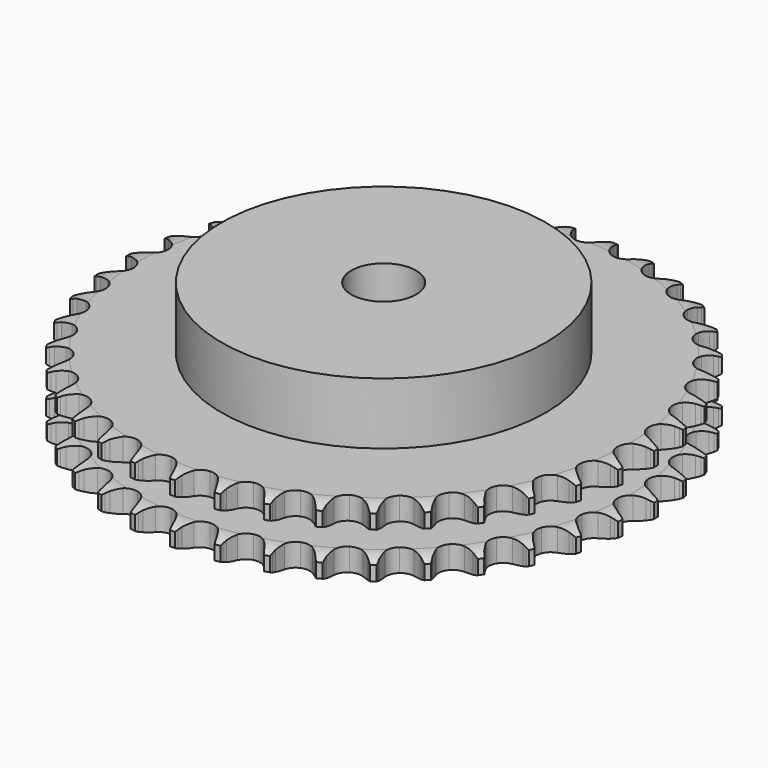
from build123d import *

# Parameters (mm, degrees)
PAD_DEPTH         = 21
SKETCH001_R       = 50
PAD001_DEPTH      = 40
SKETCH002_R       = 10
POCKET_DEPTH      = 0.001
POCKET_DEPTH_BACK = 40.001


with BuildPart() as part:
    # Sprocket → Pad (new body)
    with BuildSketch(Plane.XY):
        with BuildLine():
            ThreePointArc((-6.656622, 82.457062), (-5.929777, 81.440918), (-5.398329, 80.310249))
            Line((-5.398329, 80.310249), (-4.983377, 79.168588))
            ThreePointArc((-4.983377, 79.168588), (-4.32707, 77.702452), (-3.466416, 76.346144))
            ThreePointArc((-3.466416, 76.346144), (-1.9406, 75.061463), (0, 74.600386))
            ThreePointArc((0, 74.600386), (1.9406, 75.061463), (3.466416, 76.346144))
            ThreePointArc((3.466416, 76.346144), (4.32707, 77.702452), (4.983377, 79.168588))
            Line((4.983377, 79.168588), (5.398329, 80.310249))
            ThreePointArc((5.398329, 80.310249), (5.929777, 81.440918), (6.656622, 82.457062))
            ThreePointArc((6.656622, 82.457062), (7.211054, 81.337483), (7.554248, 80.136205))
            Line((7.554248, 80.136205), (7.780691, 78.942766))
            ThreePointArc((7.780691, 78.942766), (8.193314, 77.390336), (8.825256, 75.913534))
            ThreePointArc((8.825256, 75.913534), (10.125235, 74.400731), (11.966743, 73.63433))
            ThreePointArc((11.966743, 73.63433), (13.956175, 73.778143), (15.66831, 74.80143))
            Line((15.66831, 74.80143), (17.618378, 77.343986))
            ThreePointArc((17.618378, 77.343986), (17.900249, 77.88224), (18.211092, 78.404299))
            ThreePointArc((18.211092, 78.404299), (18.91703, 79.435077), (19.797464, 80.321468))
            ThreePointArc((19.797464, 80.321468), (20.165122, 79.12745), (20.311173, 77.886676))
            Line((20.311173, 77.886676), (20.343243, 76.672367))
            ThreePointArc((20.343243, 76.672367), (20.501496, 75.073852), (20.888358, 73.514803))
            ThreePointArc((20.888358, 73.514803), (21.928833, 71.813059), (23.623554, 70.761184))
            ThreePointArc((23.623554, 70.761184), (25.610293, 70.584007), (27.464403, 71.319397))
            Line((27.464403, 71.319397), (29.797073, 73.516215))
            ThreePointArc((29.797073, 73.516215), (30.161635, 74.002284), (30.552197, 74.467719))
            ThreePointArc((30.552197, 74.467719), (31.414342, 75.371908), (32.425561, 76.105589))
            ThreePointArc((32.425561, 76.105589), (32.596925, 74.868057), (32.54205, 73.619922))
            Line((32.54205, 73.619922), (32.378916, 72.416194))
            ThreePointArc((32.378916, 72.416194), (32.2787, 70.812994), (32.410463, 69.212078))
            ThreePointArc((32.410463, 69.212078), (33.164485, 67.365467), (34.668528, 66.055361))
            ThreePointArc((34.668528, 66.055361), (36.601117, 65.561783), (38.549182, 65.99023))
            Line((38.549182, 65.99023), (41.204039, 67.784413))
            ThreePointArc((41.204039, 67.784413), (41.641851, 68.205707), (42.102016, 68.602465))
            ThreePointArc((42.102016, 68.602465), (43.098039, 69.356647), (44.213854, 69.918616))
            ThreePointArc((44.213854, 69.918616), (44.184484, 68.669621), (43.930105, 67.446452))
            Line((43.930105, 67.446452), (43.575992, 66.28448))
            ThreePointArc((43.575992, 66.28448), (43.219902, 64.718117), (43.093154, 63.116796))
            ThreePointArc((43.093154, 63.116796), (43.541194, 61.173144), (44.815605, 59.638738))
            ThreePointArc((44.815605, 59.638738), (46.643992, 58.841543), (48.635557, 58.95195))
            Line((48.635557, 58.95195), (51.543842, 60.29703))
            ThreePointArc((51.543842, 60.29703), (52.043565, 60.642638), (52.561416, 60.960443))
            ThreePointArc((52.561416, 60.960443), (53.665519, 61.545085), (54.857031, 61.920787))
            ThreePointArc((54.857031, 61.920787), (54.627688, 60.692678), (54.180394, 59.526153))
            Line((54.180394, 59.526153), (53.644473, 58.436033))
            ThreePointArc((53.644473, 58.436033), (53.041732, 56.947074), (52.659755, 55.386822))
            ThreePointArc((52.659755, 55.386822), (52.79021, 53.396469), (53.801981, 51.677504))
            ThreePointArc((53.801981, 51.677504), (55.478812, 50.597338), (57.462297, 50.386846))
            Line((57.462297, 50.386846), (60.548686, 51.247985))
            ThreePointArc((60.548686, 51.247985), (61.097378, 51.508957), (61.659502, 51.739577))
            ThreePointArc((61.659502, 51.739577), (62.843091, 52.139538), (64.079439, 52.319243))
            ThreePointArc((64.079439, 52.319243), (63.656064, 51.143826), (63.027438, 50.064159))
            Line((63.027438, 50.064159), (62.32359, 49.074123))
            ThreePointArc((62.32359, 49.074123), (61.489808, 47.701133), (60.862496, 46.222358))
            ThreePointArc((60.862496, 46.222358), (60.671986, 44.236854), (61.394914, 42.377849))
            ThreePointArc((61.394914, 42.377849), (62.87676, 41.042688), (64.800794, 40.516748))
            Line((64.800794, 40.516748), (67.985352, 40.871645))
            ThreePointArc((67.985352, 40.871645), (68.568801, 41.041221), (69.160639, 41.178683))
            ThreePointArc((69.160639, 41.178683), (70.393059, 41.383604), (71.642224, 41.362657))
            ThreePointArc((71.642224, 41.362657), (71.035782, 40.270376), (70.242105, 39.305529))
            Line((70.242105, 39.305529), (69.388559, 38.441219))
            ThreePointArc((69.388559, 38.441219), (68.345331, 37.219757), (67.48893, 35.86076))
            ThreePointArc((67.48893, 35.86076), (66.98239, 33.931527), (67.397751, 31.98063))
            ThreePointArc((67.397751, 31.98063), (68.646232, 30.425055), (70.460984, 29.597289))
            Line((70.460984, 29.597289), (73.661232, 29.436751))
            ThreePointArc((73.661232, 29.436751), (74.264328, 29.510539), (74.870553, 29.551283))
            ThreePointArc((74.870553, 29.551283), (76.119885, 29.555856), (77.349513, 29.334801))
            ThreePointArc((77.349513, 29.334801), (76.575709, 28.353944), (75.637539, 27.528907))
            Line((75.637539, 27.528907), (74.6564, 26.812708))
            ThreePointArc((74.6564, 26.812708), (73.430746, 25.774408), (72.367437, 24.570386))
            ThreePointArc((72.367437, 24.570386), (71.557986, 22.747392), (71.655021, 20.75513))
            ThreePointArc((71.655021, 20.75513), (72.637804, 19.019428), (74.296272, 17.911275))
            Line((74.296272, 17.911275), (77.429325, 17.23946))
            ThreePointArc((77.429325, 17.23946), (78.036447, 17.215549), (78.641358, 17.158521))
            ThreePointArc((78.641358, 17.158521), (79.875245, 16.962627), (81.05349, 16.547188))
            ThreePointArc((81.05349, 16.547188), (80.132367, 15.703161), (79.074, 15.0393))
            Line((79.074, 15.0393), (77.99068, 14.489762))
            ThreePointArc((77.99068, 14.489762), (76.614343, 13.661517), (75.371665, 12.643653))
            ThreePointArc((75.371665, 12.643653), (74.280267, 10.974111), (74.056465, 8.992083))
            ThreePointArc((74.056465, 8.992083), (74.748094, 7.121208), (76.207325, 5.761368))
            Line((76.207325, 5.761368), (79.19204, 4.595676))
            ThreePointArc((79.19204, 4.595676), (79.787464, 4.474686), (80.375393, 4.321362))
            ThreePointArc((80.375393, 4.321362), (81.561878, 3.930075), (82.658224, 3.331013))
            ThreePointArc((82.658224, 3.331013), (81.613638, 2.645673), (80.462486, 2.160183))
            Line((80.462486, 2.160183), (79.305043, 1.791538))
            ThreePointArc((79.305043, 1.791538), (77.813669, 1.194799), (76.423806, 0.389456))
            ThreePointArc((76.423806, 0.389456), (75.078728, -1.083394), (74.539884, -3.003855))
            ThreePointArc((74.539884, -3.003855), (74.922448, -4.961447), (76.144649, -6.537754))
            Line((76.144649, -6.537754), (78.903722, -8.167133))
            ThreePointArc((78.903722, -8.167133), (79.472028, -8.382069), (80.027748, -8.627719))
            ThreePointArc((80.027748, -8.627719), (81.136102, -9.204264), (82.122154, -9.971435))
            ThreePointArc((82.122154, -9.971435), (80.981158, -10.480336), (79.767035, -10.774881))
            Line((79.767035, -10.774881), (78.565446, -10.953085))
            ThreePointArc((78.565446, -10.953085), (76.997661, -11.302864), (75.496611, -11.874828))
            ThreePointArc((75.496611, -11.874828), (73.93269, -13.112839), (73.09276, -14.921994))
            ThreePointArc((73.09276, -14.921994), (73.15635, -16.915603), (74.109866, -18.667553))
            Line((74.109866, -18.667553), (76.571839, -20.718418))
            ThreePointArc((76.571839, -20.718418), (77.098307, -21.021734), (77.607426, -21.353346))
            ThreePointArc((77.607426, -21.353346), (78.608943, -22.100217), (79.459163, -23.015627))
            ThreePointArc((79.459163, -23.015627), (78.25131, -23.334909), (77.005661, -23.430881))
            Line((77.005661, -23.430881), (75.791046, -23.41403))
            ThreePointArc((75.791046, -23.41403), (74.187455, -23.507788), (72.614093, -23.83156))
            ThreePointArc((72.614093, -23.83156), (70.871833, -24.802669), (69.752572, -26.453661))
            ThreePointArc((69.752572, -26.453661), (69.495541, -28.431654), (70.155677, -30.313872))
            Line((70.155677, -30.313872), (72.256786, -32.733107))
            ThreePointArc((72.256786, -32.733107), (72.727781, -33.116946), (73.177113, -33.525932))
            ThreePointArc((73.177113, -33.525932), (74.045853, -34.423786), (74.738222, -35.463727))
            ThreePointArc((74.738222, -35.463727), (73.494793, -35.585121), (72.24988, -35.480034))
            Line((72.24988, -35.480034), (71.053697, -35.268563))
            ThreePointArc((71.053697, -35.268563), (69.455832, -35.103873), (67.850909, -35.171068))
            ThreePointArc((67.850909, -35.171068), (65.975434, -35.850122), (64.605829, -37.300193))
            ThreePointArc((64.605829, -37.300193), (64.034834, -39.211341), (64.384492, -41.175077))
            Line((64.384492, -41.175077), (66.07032, -43.900025))
            ThreePointArc((66.07032, -43.900025), (66.473644, -44.354447), (66.851551, -44.830214))
            ThreePointArc((66.851551, -44.830214), (67.565016, -45.855797), (68.081599, -46.993335))
            ThreePointArc((68.081599, -46.993335), (66.8348, -46.913697), (65.622865, -46.610273))
            Line((65.622865, -46.610273), (64.476095, -46.209659))
            ThreePointArc((64.476095, -46.209659), (62.92534, -45.790786), (61.330421, -45.599663))
            ThreePointArc((61.330421, -45.599663), (59.370305, -45.969077), (57.785829, -47.180669))
            ThreePointArc((57.785829, -47.180669), (56.915658, -48.975474), (56.945783, -50.969869))
            Line((56.945783, -50.969869), (58.172667, -53.929956))
            ThreePointArc((58.172667, -53.929956), (58.497874, -54.443191), (58.794569, -54.973418))
            ThreePointArc((58.794569, -54.973418), (59.334279, -56.100167), (59.661699, -57.30584))
            ThreePointArc((59.661699, -57.30584), (58.44382, -57.027233), (57.296253, -56.53333))
            Line((57.296253, -56.53333), (56.228596, -55.953949))
            ThreePointArc((56.228596, -55.953949), (54.765115, -55.291742), (53.221508, -54.84725))
            ThreePointArc((53.221508, -54.84725), (51.227517, -54.897456), (49.469206, -55.83919))
            ThreePointArc((49.469206, -55.83919), (48.322397, -57.471168), (48.032208, -59.444569))
            Line((48.032208, -59.444569), (48.768373, -62.56313))
            ThreePointArc((48.768373, -62.56313), (49.00704, -63.121884), (49.214838, -63.692839))
            ThreePointArc((49.214838, -63.692839), (49.566816, -64.891573), (49.696593, -66.134154))
            ThreePointArc((49.696593, -66.134154), (48.539177, -65.663793), (47.485698, -64.992203))
            Line((47.485698, -64.992203), (46.524806, -64.249061))
            ThreePointArc((46.524806, -64.249061), (45.186502, -63.360671), (43.734186, -62.674323))
            ThreePointArc((43.734186, -62.674323), (41.757963, -62.40402), (39.871357, -63.051506))
            ThreePointArc((39.871357, -63.051506), (38.477611, -64.478389), (37.874624, -66.379685))
            Line((37.874624, -66.379685), (38.101004, -69.575951))
            ThreePointArc((38.101004, -69.575951), (38.246949, -70.165755), (38.360469, -70.762648))
            ThreePointArc((38.360469, -70.762648), (38.515599, -72.00232), (38.444371, -73.249628))
            ThreePointArc((38.444371, -73.249628), (37.377394, -72.599696), (36.445288, -71.767813))
            Line((36.445288, -71.767813), (35.616048, -70.880156))
            ThreePointArc((35.616048, -70.880156), (34.437582, -69.788591), (33.114171, -68.878164))
            ThreePointArc((33.114171, -68.878164), (31.206899, -68.294352), (29.24086, -68.630821))
            ThreePointArc((29.24086, -68.630821), (27.636275, -69.815653), (26.736108, -71.595603))
            Line((26.736108, -71.595603), (26.446839, -74.786791))
            ThreePointArc((26.446839, -74.786791), (26.496283, -75.392369), (26.512584, -75.999743))
            ThreePointArc((26.512584, -75.999743), (26.466847, -77.248246), (26.196459, -78.467976))
            ThreePointArc((26.196459, -78.467976), (25.247556, -77.655305), (24.460964, -76.684674))
            Line((24.460964, -76.684674), (23.784853, -75.675493))
            ThreePointArc((23.784853, -75.675493), (22.796747, -74.409024), (21.636517, -73.298096))
            ThreePointArc((21.636517, -73.298096), (19.847594, -72.415897), (17.853041, -72.432634))
            ThreePointArc((17.853041, -72.432634), (16.079174, -73.344729), (14.90514, -74.957232))
            Line((14.90514, -74.957232), (14.107714, -78.060693))
            ThreePointArc((14.107714, -78.060693), (14.059376, -78.66636), (13.978037, -79.268483))
            ThreePointArc((13.978037, -79.268483), (13.732619, -80.493482), (13.270074, -81.654044))
            ThreePointArc((13.270074, -81.654044), (12.46382, -80.699682), (11.843114, -79.615442))
            Line((11.843114, -79.615442), (11.337642, -78.510874))
            ThreePointArc((11.337642, -78.510874), (10.565489, -77.102302), (9.598488, -75.819647))
            ThreePointArc((9.598488, -75.819647), (7.974246, -74.661908), (6.002837, -74.358479))
            ThreePointArc((6.002837, -74.358479), (4.105631, -74.974215), (2.688136, -76.377508))
            Line((2.688136, -76.377508), (1.403207, -79.312864))
            ThreePointArc((1.403207, -79.312864), (1.25834, -79.902934), (1.081466, -80.484212))
            ThreePointArc((1.081466, -80.484212), (0.642722, -81.653979), (0, -82.725315))
            ThreePointArc((0, -82.725315), (-0.642722, -81.653979), (-1.081466, -80.484212))
            Line((-1.081466, -80.484212), (-1.403207, -79.312864))
            ThreePointArc((-1.403207, -79.312864), (-1.939411, -77.798671), (-2.688136, -76.377508))
            ThreePointArc((-2.688136, -76.377508), (-4.105631, -74.974215), (-6.002837, -74.358479))
            ThreePointArc((-6.002837, -74.358479), (-7.974246, -74.661908), (-9.598488, -75.819647))
            Line((-9.598488, -75.819647), (-11.337642, -78.510874))
            ThreePointArc((-11.337642, -78.510874), (-11.575287, -79.070064), (-11.843114, -79.615442))
            ThreePointArc((-11.843114, -79.615442), (-12.46382, -80.699682), (-13.270074, -81.654044))
            ThreePointArc((-13.270074, -81.654044), (-13.732619, -80.493482), (-13.978037, -79.268483))
            Line((-13.978037, -79.268483), (-14.107714, -78.060693))
            ThreePointArc((-14.107714, -78.060693), (-14.39408, -76.480096), (-14.90514, -74.957232))
            ThreePointArc((-14.90514, -74.957232), (-16.079174, -73.344729), (-17.853041, -72.432634))
            ThreePointArc((-17.853041, -72.432634), (-19.847594, -72.415897), (-21.636517, -73.298096))
            Line((-21.636517, -73.298096), (-23.784853, -75.675493))
            ThreePointArc((-23.784853, -75.675493), (-24.109121, -76.18932), (-24.460964, -76.684674))
            ThreePointArc((-24.460964, -76.684674), (-25.247556, -77.655305), (-26.196459, -78.467976))
            ThreePointArc((-26.196459, -78.467976), (-26.466847, -77.248246), (-26.512584, -75.999743))
            Line((-26.512584, -75.999743), (-26.446839, -74.786791))
            ThreePointArc((-26.446839, -74.786791), (-26.475951, -73.180725), (-26.736108, -71.595603))
            ThreePointArc((-26.736108, -71.595603), (-27.636275, -69.815653), (-29.24086, -68.630821))
            ThreePointArc((-29.24086, -68.630821), (-31.206899, -68.294352), (-33.114171, -68.878164))
            Line((-33.114171, -68.878164), (-35.616048, -70.880156))
            ThreePointArc((-35.616048, -70.880156), (-36.01854, -71.335314), (-36.445288, -71.767813))
            ThreePointArc((-36.445288, -71.767813), (-37.377394, -72.599696), (-38.444371, -73.249628))
            ThreePointArc((-38.444371, -73.249628), (-38.515599, -72.00232), (-38.360469, -70.762648))
            Line((-38.360469, -70.762648), (-38.101004, -69.575951))
            ThreePointArc((-38.101004, -69.575951), (-37.872108, -67.986013), (-37.874624, -66.379685))
            ThreePointArc((-37.874624, -66.379685), (-38.477611, -64.478389), (-39.871357, -63.051506))
            ThreePointArc((-39.871357, -63.051506), (-41.757963, -62.40402), (-43.734186, -62.674323))
            Line((-43.734186, -62.674323), (-46.524806, -64.249061))
            ThreePointArc((-46.524806, -64.249061), (-46.995099, -64.63376), (-47.485698, -64.992203))
            ThreePointArc((-47.485698, -64.992203), (-48.539177, -65.663793), (-49.696593, -66.134154))
            ThreePointArc((-49.696593, -66.134154), (-49.566816, -64.891573), (-49.214838, -63.692839))
            Line((-49.214838, -63.692839), (-48.768373, -62.56313))
            ThreePointArc((-48.768373, -62.56313), (-48.287398, -61.030499), (-48.032208, -59.444569))
            ThreePointArc((-48.032208, -59.444569), (-48.322397, -57.471168), (-49.469206, -55.83919))
            ThreePointArc((-49.469206, -55.83919), (-51.227517, -54.897456), (-53.221508, -54.84725))
            Line((-53.221508, -54.84725), (-56.228596, -55.953949))
            ThreePointArc((-56.228596, -55.953949), (-56.754509, -56.258226), (-57.296253, -56.53333))
            ThreePointArc((-57.296253, -56.53333), (-58.44382, -57.027233), (-59.661699, -57.30584))
            ThreePointArc((-59.661699, -57.30584), (-59.334279, -56.100167), (-58.794569, -54.973418))
            Line((-58.794569, -54.973418), (-58.172667, -53.929956))
            ThreePointArc((-58.172667, -53.929956), (-57.452069, -52.494326), (-56.945783, -50.969869))
            ThreePointArc((-56.945783, -50.969869), (-56.915658, -48.975474), (-57.785829, -47.180669))
            ThreePointArc((-57.785829, -47.180669), (-59.370305, -45.969077), (-61.330421, -45.599663))
            Line((-61.330421, -45.599663), (-64.476095, -46.209659))
            ThreePointArc((-64.476095, -46.209659), (-65.044007, -46.425633), (-65.622865, -46.610273))
            ThreePointArc((-65.622865, -46.610273), (-66.8348, -46.913697), (-68.081599, -46.993335))
            ThreePointArc((-68.081599, -46.993335), (-67.565016, -45.855797), (-66.851551, -44.830214))
            Line((-66.851551, -44.830214), (-66.07032, -43.900025))
            ThreePointArc((-66.07032, -43.900025), (-65.128762, -42.598579), (-64.384492, -41.175077))
            ThreePointArc((-64.384492, -41.175077), (-64.034834, -39.211341), (-64.605829, -37.300193))
            ThreePointArc((-64.605829, -37.300193), (-65.975434, -35.850122), (-67.850909, -35.171068))
            Line((-67.850909, -35.171068), (-71.053697, -35.268563))
            ThreePointArc((-71.053697, -35.268563), (-71.648899, -35.390641), (-72.24988, -35.480034))
            ThreePointArc((-72.24988, -35.480034), (-73.494793, -35.585121), (-74.738222, -35.463727))
            ThreePointArc((-74.738222, -35.463727), (-74.045853, -34.423786), (-73.177113, -33.525932))
            Line((-73.177113, -33.525932), (-72.256786, -32.733107))
            ThreePointArc((-72.256786, -32.733107), (-71.118654, -31.59955), (-70.155677, -30.313872))
            ThreePointArc((-70.155677, -30.313872), (-69.495541, -28.431654), (-69.752572, -26.453661))
            ThreePointArc((-69.752572, -26.453661), (-70.871833, -24.802669), (-72.614093, -23.83156))
            Line((-72.614093, -23.83156), (-75.791046, -23.41403))
            ThreePointArc((-75.791046, -23.41403), (-76.398123, -23.43905), (-77.005661, -23.430881))
            ThreePointArc((-77.005661, -23.430881), (-78.25131, -23.334909), (-79.459163, -23.015627))
            ThreePointArc((-79.459163, -23.015627), (-78.608943, -22.100217), (-77.607426, -21.353346))
            Line((-77.607426, -21.353346), (-76.571839, -20.718418))
            ThreePointArc((-76.571839, -20.718418), (-75.266611, -19.78211), (-74.109866, -18.667553))
            ThreePointArc((-74.109866, -18.667553), (-73.15635, -16.915603), (-73.09276, -14.921994))
            ThreePointArc((-73.09276, -14.921994), (-73.93269, -13.112839), (-75.496611, -11.874828))
            Line((-75.496611, -11.874828), (-78.565446, -10.953085))
            ThreePointArc((-78.565446, -10.953085), (-79.168675, -10.880399), (-79.767035, -10.774881))
            ThreePointArc((-79.767035, -10.774881), (-80.981158, -10.480336), (-82.122154, -9.971435))
            ThreePointArc((-82.122154, -9.971435), (-81.136102, -9.204264), (-80.027748, -8.627719))
            Line((-80.027748, -8.627719), (-78.903722, -8.167133))
            ThreePointArc((-78.903722, -8.167133), (-77.465201, -7.452323), (-76.144649, -6.537754))
            ThreePointArc((-76.144649, -6.537754), (-74.922448, -4.961447), (-74.539884, -3.003855))
            ThreePointArc((-74.539884, -3.003855), (-75.078728, -1.083394), (-76.423806, 0.389456))
            Line((-76.423806, 0.389456), (-79.305043, 1.791538))
            ThreePointArc((-79.305043, 1.791538), (-79.888801, 1.960048), (-80.462486, 2.160183))
            ThreePointArc((-80.462486, 2.160183), (-81.613638, 2.645673), (-82.658224, 3.331013))
            ThreePointArc((-82.658224, 3.331013), (-81.561878, 3.930075), (-80.375393, 4.321362))
            Line((-80.375393, 4.321362), (-79.19204, 4.595676))
            ThreePointArc((-79.19204, 4.595676), (-77.657484, 5.070475), (-76.207325, 5.761368))
            ThreePointArc((-76.207325, 5.761368), (-74.748094, 7.121208), (-74.056465, 8.992083))
            ThreePointArc((-74.056465, 8.992083), (-74.280267, 10.974111), (-75.371665, 12.643653))
            Line((-75.371665, 12.643653), (-77.99068, 14.489762))
            ThreePointArc((-77.99068, 14.489762), (-78.539848, 14.74973), (-79.074, 15.0393))
            ThreePointArc((-79.074, 15.0393), (-80.132367, 15.703161), (-81.05349, 16.547188))
            ThreePointArc((-81.05349, 16.547188), (-79.875245, 16.962627), (-78.641358, 17.158521))
            Line((-78.641358, 17.158521), (-77.429325, 17.23946))
            ThreePointArc((-77.429325, 17.23946), (-75.838479, 17.46195), (-74.296272, 17.911275))
            ThreePointArc((-74.296272, 17.911275), (-72.637804, 19.019428), (-71.655021, 20.75513))
            ThreePointArc((-71.655021, 20.75513), (-71.557986, 22.747392), (-72.367437, 24.570386))
            Line((-72.367437, 24.570386), (-74.6564, 26.812708))
            ThreePointArc((-74.6564, 26.812708), (-75.156754, 27.157403), (-75.637539, 27.528907))
            ThreePointArc((-75.637539, 27.528907), (-76.575709, 28.353944), (-77.349513, 29.334801))
            ThreePointArc((-77.349513, 29.334801), (-76.119885, 29.555856), (-74.870553, 29.551283))
            Line((-74.870553, 29.551283), (-73.661232, 29.436751))
            ThreePointArc((-73.661232, 29.436751), (-72.055297, 29.40117), (-70.460984, 29.597289))
            ThreePointArc((-70.460984, 29.597289), (-68.646232, 30.425055), (-67.397751, 31.98063))
            ThreePointArc((-67.397751, 31.98063), (-66.98239, 33.931527), (-67.48893, 35.86076))
            Line((-67.48893, 35.86076), (-69.388559, 38.441219))
            ThreePointArc((-69.388559, 38.441219), (-69.82714, 38.861713), (-70.242105, 39.305529))
            ThreePointArc((-70.242105, 39.305529), (-71.035782, 40.270376), (-71.642224, 41.362657))
            ThreePointArc((-71.642224, 41.362657), (-70.393059, 41.383604), (-69.160639, 41.178683))
            Line((-69.160639, 41.178683), (-67.985352, 40.871645))
            ThreePointArc((-67.985352, 40.871645), (-66.40592, 40.578915), (-64.800794, 40.516748))
            ThreePointArc((-64.800794, 40.516748), (-62.87676, 41.042688), (-61.394914, 42.377849))
            ThreePointArc((-61.394914, 42.377849), (-60.671986, 44.236854), (-60.862496, 46.222358))
            Line((-60.862496, 46.222358), (-62.32359, 49.074123))
            ThreePointArc((-62.32359, 49.074123), (-62.68904, 49.559525), (-63.027438, 50.064159))
            ThreePointArc((-63.027438, 50.064159), (-63.656064, 51.143826), (-64.079439, 52.319243))
            ThreePointArc((-64.079439, 52.319243), (-62.843091, 52.139538), (-61.659502, 51.739577))
            Line((-61.659502, 51.739577), (-60.548686, 51.247985))
            ThreePointArc((-60.548686, 51.247985), (-59.036665, 50.705687), (-57.462297, 50.386846))
            ThreePointArc((-57.462297, 50.386846), (-55.478812, 50.597338), (-53.801981, 51.677504))
            ThreePointArc((-53.801981, 51.677504), (-52.79021, 53.396469), (-52.659755, 55.386822))
            Line((-52.659755, 55.386822), (-53.644473, 58.436033))
            ThreePointArc((-53.644473, 58.436033), (-53.927327, 58.973771), (-54.180394, 59.526153))
            ThreePointArc((-54.180394, 59.526153), (-54.627688, 60.692678), (-54.857031, 61.920787))
            ThreePointArc((-54.857031, 61.920787), (-53.665519, 61.545085), (-52.561416, 60.960443))
            Line((-52.561416, 60.960443), (-51.543842, 60.29703))
            ThreePointArc((-51.543842, 60.29703), (-50.138392, 59.519209), (-48.635557, 58.95195))
            ThreePointArc((-48.635557, 58.95195), (-46.643992, 58.841543), (-44.815605, 59.638738))
            ThreePointArc((-44.815605, 59.638738), (-43.541194, 61.173144), (-43.093154, 63.116796))
            Line((-43.093154, 63.116796), (-43.575992, 66.28448))
            ThreePointArc((-43.575992, 66.28448), (-43.768924, 66.860628), (-43.930105, 67.446452))
            ThreePointArc((-43.930105, 67.446452), (-44.184484, 68.669621), (-44.213854, 69.918616))
            ThreePointArc((-44.213854, 69.918616), (-43.098039, 69.356647), (-42.102016, 68.602465))
            Line((-42.102016, 68.602465), (-41.204039, 67.784413))
            ThreePointArc((-41.204039, 67.784413), (-39.94156, 66.791214), (-38.549182, 65.99023))
            ThreePointArc((-38.549182, 65.99023), (-36.601117, 65.561783), (-34.668528, 66.055361))
            ThreePointArc((-34.668528, 66.055361), (-33.164485, 67.365467), (-32.410463, 69.212078))
            Line((-32.410463, 69.212078), (-32.378916, 72.416194))
            ThreePointArc((-32.378916, 72.416194), (-32.476929, 73.015829), (-32.54205, 73.619922))
            ThreePointArc((-32.54205, 73.619922), (-32.596925, 74.868057), (-32.425561, 76.105589))
            ThreePointArc((-32.425561, 76.105589), (-31.414342, 75.371908), (-30.552197, 74.467719))
            Line((-30.552197, 74.467719), (-29.797073, 73.516215))
            ThreePointArc((-29.797073, 73.516215), (-28.710263, 72.333363), (-27.464403, 71.319397))
            ThreePointArc((-27.464403, 71.319397), (-25.610293, 70.584007), (-23.623554, 70.761184))
            ThreePointArc((-23.623554, 70.761184), (-21.928833, 71.813059), (-20.888358, 73.514803))
            Line((-20.888358, 73.514803), (-20.343243, 76.672367))
            ThreePointArc((-20.343243, 76.672367), (-20.343798, 77.279959), (-20.311173, 77.886676))
            ThreePointArc((-20.311173, 77.886676), (-20.165122, 79.12745), (-19.797464, 80.321468))
            ThreePointArc((-19.797464, 80.321468), (-18.91703, 79.435077), (-18.211092, 78.404299))
            Line((-18.211092, 78.404299), (-17.618378, 77.343986))
            ThreePointArc((-17.618378, 77.343986), (-16.735386, 76.002115), (-15.66831, 74.80143))
            ThreePointArc((-15.66831, 74.80143), (-13.956175, 73.778143), (-11.966743, 73.63433))
            ThreePointArc((-11.966743, 73.63433), (-10.125235, 74.400731), (-8.825256, 75.913534))
            Line((-8.825256, 75.913534), (-7.780691, 78.942766))
            ThreePointArc((-7.780691, 78.942766), (-7.683774, 79.542579), (-7.554248, 80.136205))
            ThreePointArc((-7.554248, 80.136205), (-7.211054, 81.337483), (-6.656622, 82.457062))
        make_face()
    extrude(amount=PAD_DEPTH)

    # Sketch → Groove (revolve, cut)
    with BuildSketch(Plane.XZ):
        with BuildLine():
            ThreePointArc((75.683431, 0), (78.59032, 0.329167), (81.35, 1.3))
            Line((81.35, 1.3), (81.35, 5.7))
            ThreePointArc((81.35, 5.7), (78.59032, 6.670833), (75.683431, 7))
            Line((50, 7), (75.683431, 7))
            Line((50, 14), (50, 7))
            Line((75.683431, 14), (50, 14))
            ThreePointArc((75.683431, 14), (78.59032, 14.329167), (81.35, 15.3))
            Line((81.35, 15.3), (81.35, 19.7))
            ThreePointArc((81.35, 19.7), (78.59032, 20.670833), (75.683431, 21))
            Line((75.683431, 21), (85.683431, 21))
            Line((85.683431, 21), (85.683431, 0))
            Line((75.683431, 0), (85.683431, 0))
        make_face()
    revolve(axis=Axis((0, 0, 0), (0, 0, 1)), mode=Mode.SUBTRACT)

    # Sketch001 → Pad001 (join)
    with BuildSketch(Plane.XY):
        Circle(SKETCH001_R)
    extrude(amount=PAD001_DEPTH)

    # Sketch002 → Pocket (cut, two sides)
    with BuildSketch(Plane.XY) as pocket_sk:
        Circle(SKETCH002_R)
    extrude(amount=-POCKET_DEPTH, mode=Mode.SUBTRACT)
    extrude(pocket_sk.sketch, amount=POCKET_DEPTH_BACK, mode=Mode.SUBTRACT)


solid = part.part
